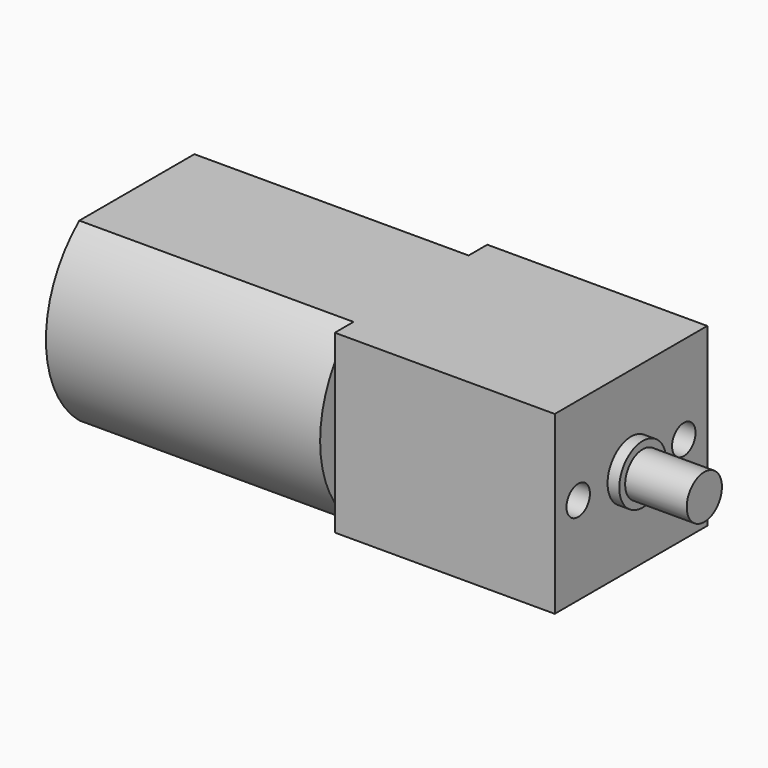
from build123d import *

# Parameters (mm, degrees)
F1_DEPTH = 18.7
F2_W     = 13
F2_H     = 12
F3_DEPTH = 15
F4_R     = 1.5
F5_DEPTH = 5
F4_R_2   = 1
F6_DEPTH = 6
F4_R_3   = 2
F7_DEPTH = 0.8


with BuildPart() as f1:
    # F0 (on Right) → F1 (new body)
    with BuildSketch(Plane.YZ):
        with BuildLine():
            Line((4.905354, 6), (-4.905354, 6))
            ThreePointArc((-4.905354, 6), (-7.75, 0), (-4.905354, -6))
            Line((-4.905354, -6), (4.905354, -6))
            ThreePointArc((4.905354, -6), (7.75, 0), (4.905354, 6))
        make_face()
    extrude(amount=F1_DEPTH)

    # F2 (on face) → F3 (join)
    with BuildSketch(Plane.YZ.offset(18.7)):
        Rectangle(F2_W, F2_H)
    extrude(amount=F3_DEPTH)

    # F4 (on face) → F5 (join)
    with BuildSketch(Plane.YZ.offset(33.7)):
        Circle(F4_R)
    extrude(amount=F5_DEPTH)

    # F4 (on face) → F6 (cut)
    with BuildSketch(Plane.YZ.offset(33.7)):
        with Locations((-4.5, 0)):
            Circle(F4_R_2)
        with Locations((4.5, 0)):
            Circle(F4_R_2)
    extrude(amount=-F6_DEPTH, mode=Mode.SUBTRACT)

    # F4 (on face) → F7 (join)
    with BuildSketch(Plane.YZ.offset(33.7)):
        Circle(F4_R_3)
        Circle(F4_R, mode=Mode.SUBTRACT)
    extrude(amount=F7_DEPTH)


solid = f1.part
